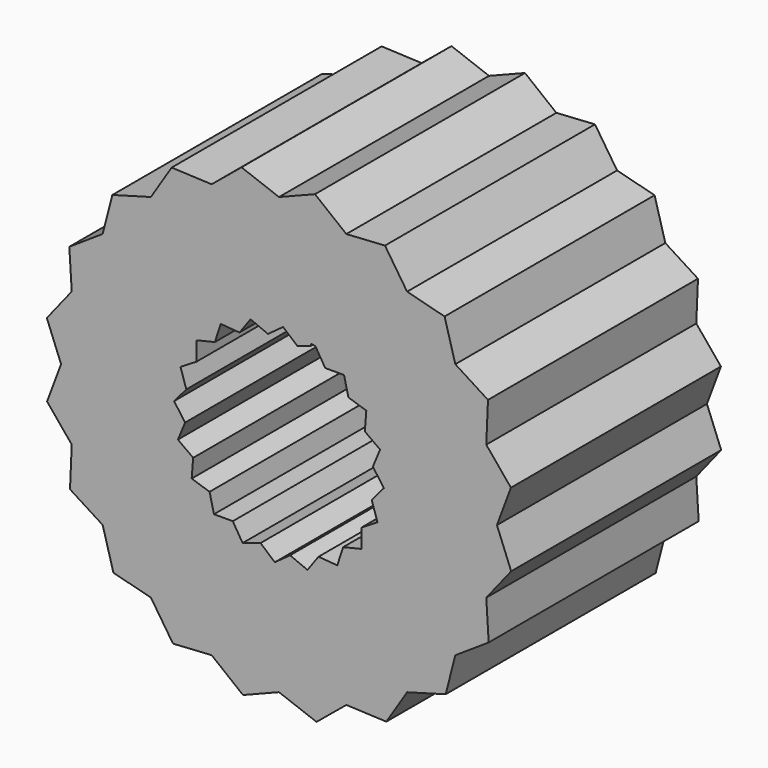
from build123d import *

# Parameters (mm, degrees)
F1_DEPTH = 10


with BuildPart() as f1:
    # F0 (on Front) → F1 (new body)
    with BuildSketch(Plane.XZ):
        Polygon((2.5655252267, -7.8958747543), (4.8799189691, -6.7166322424), (6.7166322424, -4.8799189691), (7.8958747543, -2.5655252267), (8.3022140315, 0), (7.8958747543, 2.5655252267), (6.7166322424, 4.8799189691), (4.8799189691, 6.7166322424), (2.5655252267, 7.8958747543), (0, 8.3022140315), (-2.5655252267, 7.8958747543), (-4.8799189691, 6.7166322424), (-6.7166322424, 4.8799189691), (-7.8958747543, 2.5655252267), (-8.3022140315, 0), (-7.8958747543, -2.5655252267), (-6.7166322424, -4.8799189691), (-4.8799189691, -6.7166322424), (-2.5655252267, -7.8958747543), (0, -8.3022140315), align=None)
        Polygon((0.1586110624, 3.9968540793), (1.2293142469, 3.7834402195), (1.385943919, 3.752220603), (2.4776109283, 3.1402936308), (3.3267521175, 2.2209728384), (3.8502476305, 1.0842477501), (3.9968540793, -0.1586110624), (3.752220603, -1.385943919), (3.1402936308, -2.4776109283), (2.2209728384, -3.3267521175), (1.0842477501, -3.8502476305), (-0.1586110624, -3.9968540793), (-1.385943919, -3.752220603), (-2.4776109283, -3.1402936308), (-3.3267521175, -2.2209728384), (-3.8502476305, -1.0842477501), (-3.9968540793, 0.1586110624), (-3.752220603, 1.385943919), (-3.1402936308, 2.4776109283), (-2.2209728384, 3.3267521175), (-1.0842477501, 3.8502476305), align=None, mode=Mode.SUBTRACT)
        Polygon((-6.3492907419, 6.3078528102), (-6.7166322424, 4.8799189691), (-4.8799189691, 6.7166322424), align=None)
        Polygon((-4.8799189691, 6.7166322424), (-2.5655252267, 7.8958747543), (-4.0893006175, 7.9611632604), align=None)
        Polygon((-2.5655252267, 7.8958747543), (0, 8.3022140315), (-1.4290212569, 8.8351795821), align=None)
        Polygon((0, 8.3022140315), (2.5655252267, 7.8958747543), (1.3711406609, 8.8443469679), align=None)
        Polygon((2.5655252267, 7.8958747543), (4.8799189691, 6.7166322424), (4.0370857775, 7.9877680503), align=None)
        Polygon((4.8799189691, 6.7166322424), (6.7166322424, 4.8799189691), (6.3078528102, 6.3492907419), align=None)
        Polygon((6.7166322424, 4.8799189691), (7.8958747543, 2.5655252267), (7.9611632604, 4.0893006175), align=None)
        Polygon((7.8958747543, 2.5655252267), (8.3022140315, 0), (8.8351795821, 1.4290212569), align=None)
        Polygon((8.3022140315, 0), (7.8958747543, -2.5655252267), (8.8443469679, -1.3711406609), align=None)
        Polygon((7.8958747543, -2.5655252267), (6.7166322424, -4.8799189691), (7.9877680503, -4.0370857775), align=None)
        Polygon((6.7166322424, -4.8799189691), (4.8799189691, -6.7166322424), (6.3492907419, -6.3078528102), align=None)
        Polygon((4.0893006175, -7.9611632604), (4.8799189691, -6.7166322424), (2.5655252267, -7.8958747543), align=None)
        Polygon((1.4290212569, -8.8351795821), (2.5655252267, -7.8958747543), (0, -8.3022140315), align=None)
        Polygon((-1.3711406609, -8.8443469679), (0, -8.3022140315), (-2.5655252267, -7.8958747543), align=None)
        Polygon((-4.0370857775, -7.9877680503), (-2.5655252267, -7.8958747543), (-4.8799189691, -6.7166322424), align=None)
        Polygon((-6.3078528102, -6.3492907419), (-4.8799189691, -6.7166322424), (-6.7166322424, -4.8799189691), align=None)
        Polygon((-7.9611632604, -4.0893006175), (-6.7166322424, -4.8799189691), (-7.8958747543, -2.5655252267), align=None)
        Polygon((-8.8351795821, -1.4290212569), (-7.8958747543, -2.5655252267), (-8.3022140315, 0), align=None)
        Polygon((-7.9877680503, 4.0370857775), (-7.8958747543, 2.5655252267), (-6.7166322424, 4.8799189691), align=None)
        Polygon((-8.8443469679, 1.3711406609), (-8.3022140315, 0), (-7.8958747543, 2.5655252267), align=None)
        Polygon((-1.760271545, -3.1402936308), (-2.4776109283, -3.1402936308), (-1.385943919, -3.752220603), align=None)
        Polygon((-0.7037136241, -3.5305505428), (-1.385943919, -3.752220603), (-0.1586110624, -3.9968540793), align=None)
        Polygon((-0.1586110624, -3.9968540793), (1.0842477501, -3.8502476305), (0.4217286894, -3.5752125689), align=None)
        Polygon((1.0842477501, -3.8502476305), (2.2209728384, -3.3267521175), (1.5058892605, -3.2699078787), align=None)
        Polygon((2.2209728384, -3.3267521175), (3.1402936308, -2.4776109283), (2.4426428986, -2.6445218226), align=None)
        Polygon((3.1402936308, -2.4776109283), (3.752220603, -1.385943919), (3.1402936308, -1.760271545), align=None)
        Polygon((3.752220603, -1.385943919), (3.9968540793, -0.1586110624), (3.5305505428, -0.7037136241), align=None)
        Polygon((3.9968540793, -0.1586110624), (3.8502476305, 1.0842477501), (3.5752125689, 0.4217286894), align=None)
        Polygon((3.8502476305, 1.0842477501), (3.3267521175, 2.2209728384), (3.2699078787, 1.5058892605), align=None)
        Polygon((3.3267521175, 2.2209728384), (2.4776109283, 3.1402936308), (2.6445218226, 2.4426428986), align=None)
        Polygon((2.4776109283, 3.1402936308), (1.385943919, 3.752220603), (1.760271545, 3.1402936308), align=None)
        Polygon((-3.2699078787, -1.5058892605), (-3.8502476305, -1.0842477501), (-3.3267521175, -2.2209728384), align=None)
        Polygon((-2.4426428986, 2.6445218226), (-2.2209728384, 3.3267521175), (-3.1402936308, 2.4776109283), align=None)
        Polygon((-1.5058892605, 3.2699078787), (-1.0842477501, 3.8502476305), (-2.2209728384, 3.3267521175), align=None)
        Polygon((-0.4217286894, 3.5752125689), (0.1586110624, 3.9968540793), (-1.0842477501, 3.8502476305), align=None)
        Polygon((-3.1402936308, 1.760271545), (-3.1402936308, 2.4776109283), (-3.752220603, 1.385943919), align=None)
        Polygon((-3.5305505428, 0.7037136241), (-3.752220603, 1.385943919), (-3.9968540793, 0.1586110624), align=None)
        Polygon((-3.5752125689, -0.4217286894), (-3.9968540793, 0.1586110624), (-3.8502476305, -1.0842477501), align=None)
        Polygon((-2.6445218226, -2.4426428986), (-3.3267521175, -2.2209728384), (-2.4776109283, -3.1402936308), align=None)
        Polygon((1.1994854323, 3.6916365681), (1.2293142469, 3.7834402195), (0.1586110624, 3.9968540793), (0.7037136241, 3.5305505428), align=None)
    extrude(amount=F1_DEPTH)


solid = f1.part
